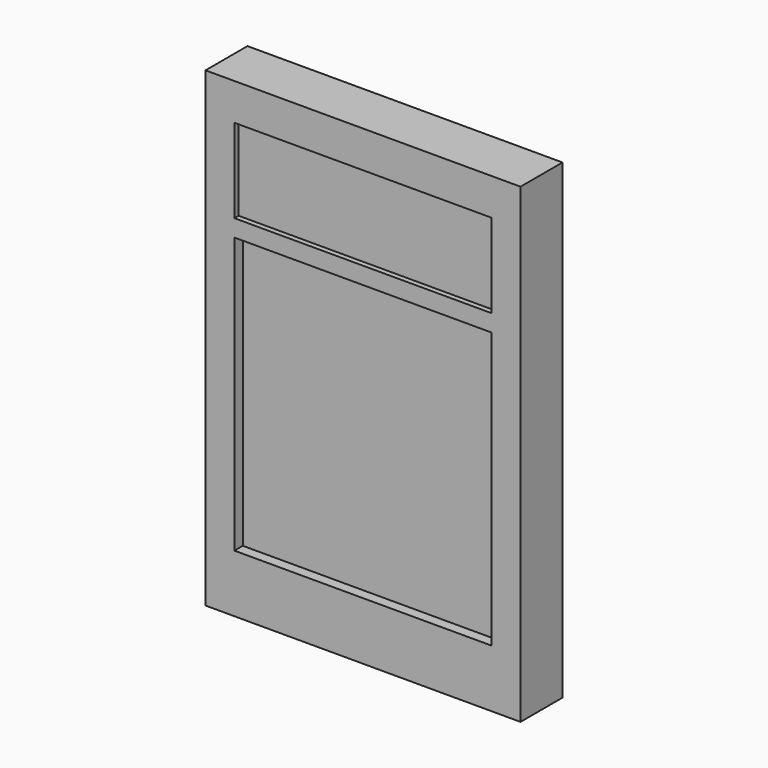
from build123d import *

# Parameters (mm, degrees)
F0_W     = 1524
F0_H     = 2279.65
F1_DEPTH = 254
F2_W     = 1244.6
F2_H     = 406.4
F3_DEPTH = 25.4
F4_W     = 1244.6
F4_H     = 1333.5
F5_DEPTH = 50.8
F6_W     = 622.3
F6_H     = 774.7
F7_DEPTH = 12.7


with BuildPart() as f1:
    # F0 (on Front) → F1 (new body)
    with BuildSketch(Plane.XZ):
        with Locations((762, -1139.825)):
            Rectangle(F0_W, F0_H)
    extrude(amount=F1_DEPTH)

    # F2 (on face) → F3 (cut)
    with BuildSketch(Plane.XZ.offset(254)):
        with Locations((762, -381)):
            Rectangle(F2_W, F2_H)
    extrude(amount=-F3_DEPTH, mode=Mode.SUBTRACT)

    # F4 (on face) → F5 (cut)
    with BuildSketch(Plane.XZ.offset(254)):
        with Locations((762, -1333.5)):
            Rectangle(F4_W, F4_H)
    extrude(amount=-F5_DEPTH, mode=Mode.SUBTRACT)

    # F6 (on face) → F7 (join)
    with BuildSketch(Plane(origin=(0, 0, 0), x_dir=(-1, 0, 0), z_dir=(0, 1, 0))):
        with Locations((-755.65, -831.85)):
            Rectangle(F6_W, F6_H)
    extrude(amount=F7_DEPTH)


solid = f1.part
